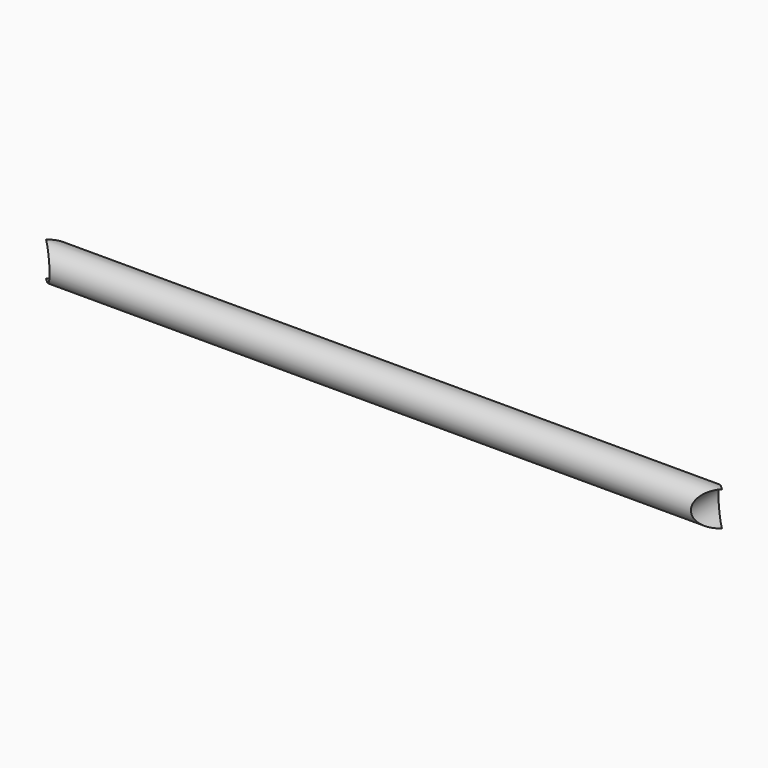
from build123d import *

# Parameters (mm, degrees)
F0_R          = 11.7094
F1_DEPTH      = 459.1812
F2_R          = 11.7094
F3_DEPTH      = 11.7104
F3_DEPTH_BACK = 11.7104


with BuildPart() as f1:
    # F0 (on Right) → F1 (new body)
    with BuildSketch(Plane.YZ):
        Circle(F0_R)
    extrude(amount=F1_DEPTH)

    # F2 (on Front) → F3 (cut, two sides)
    with BuildSketch(Plane.XZ) as f3_sk:
        Circle(F2_R)
        with Locations((459.1812, 0)):
            Circle(F2_R)
    extrude(amount=-F3_DEPTH, mode=Mode.SUBTRACT)
    extrude(f3_sk.sketch, amount=F3_DEPTH_BACK, mode=Mode.SUBTRACT)


solid = f1.part
